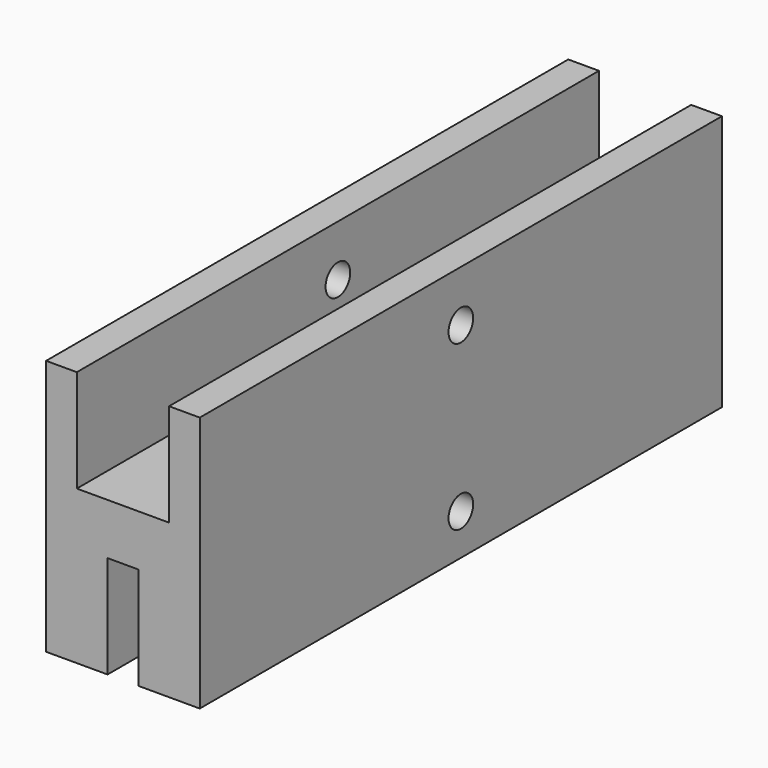
from build123d import *

# Parameters (mm, degrees)
F1_DEPTH = 63.7
F2_R     = 1.5
F3_DEPTH = 25
F4_DEPTH = 8


with BuildPart() as f1:
    # F0 (on Front) → F1 (new body)
    with BuildSketch(Plane.XZ):
        Polygon((0, 25), (0, 0), (6, 0), (6, 10), (9, 10), (9, 0), (15, 0), (15, 25), (12, 25), (12, 15), (3, 15), (3, 25), align=None)
    extrude(amount=-F1_DEPTH)

    # F2 (on face) → F3 (cut)
    with BuildSketch(Plane.YZ.offset(15)):
        with Locations((31.85, 20)):
            Circle(F2_R)
    extrude(amount=-F3_DEPTH, mode=Mode.SUBTRACT)

    # F2 (on face) → F4 (cut)
    with BuildSketch(Plane.YZ.offset(15)):
        with Locations((31.85, 4)):
            Circle(F2_R)
    extrude(amount=-F4_DEPTH, mode=Mode.SUBTRACT)


solid = f1.part
